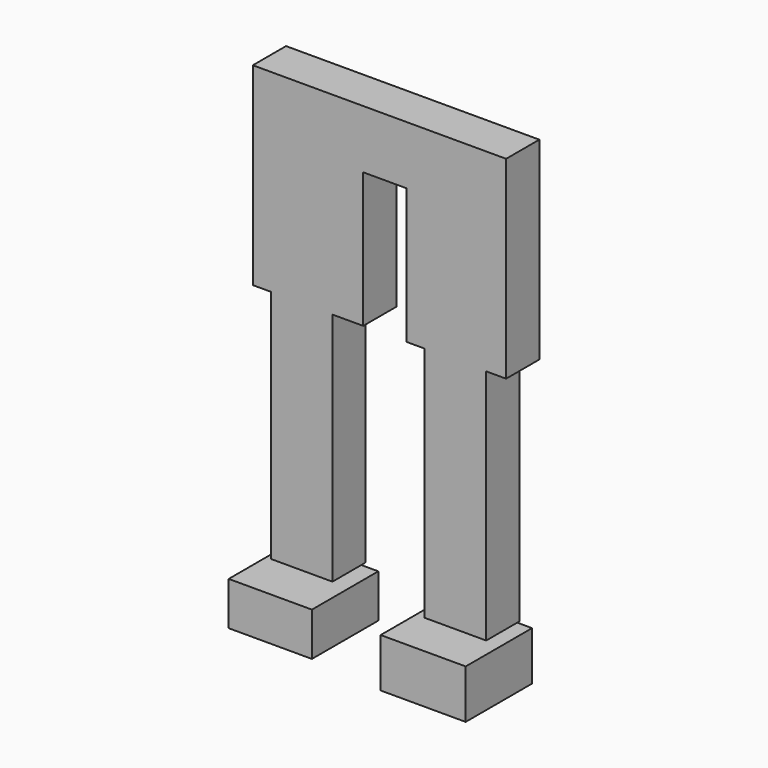
from build123d import *

# Parameters (mm, degrees)
F0_W     = 12.735158
F0_H     = 6.644431
F0_W_2   = 13.012005
F0_H_2   = 7.474985
F1_DEPTH = 12.7
F2_W     = 9.412941
F2_H     = 35.990656
F2_W_2   = 9.41294
F2_H_2   = 36.267512
F3_DEPTH = 6.35


with BuildPart() as f1:
    # F0 (on Front) → F1 (new body)
    with BuildSketch(Plane.XZ):
        with Locations((-49.487155, -60.5612)):
            Rectangle(F0_W, F0_H)
        with Locations((-26.093227, -60.976478)):
            Rectangle(F0_W_2, F0_H_2)
    extrude(amount=F1_DEPTH)


with BuildPart() as f3:
    # F2 (on Front) → F3 (new body)
    with BuildSketch(Plane.XZ):
        with Locations((-49.764005, -38.689956)):
            Rectangle(F2_W, F2_H)
        Polygon((-57.238989, -20.694628), (-54.470476, -20.694628), (-45.057535, -20.694628), (-40.351063, -20.694628), (-40.351063, 0), (-57.238989, 0), align=None)
        Polygon((-57.238989, 8.928452), (-57.238989, 0), (-40.351063, 0), (-33.706635, 0), (-18.479818, 0), (-18.479818, 8.928452), align=None)
        Polygon((-18.479818, 0), (-33.706635, 0), (-33.706635, -20.694628), (-30.938122, -20.694628), (-21.525182, -20.694628), (-18.479818, -20.694628), align=None)
        with Locations((-26.231652, -38.828384)):
            Rectangle(F2_W_2, F2_H_2)
    extrude(amount=F3_DEPTH)


solid = Compound([f1.part, f3.part])
